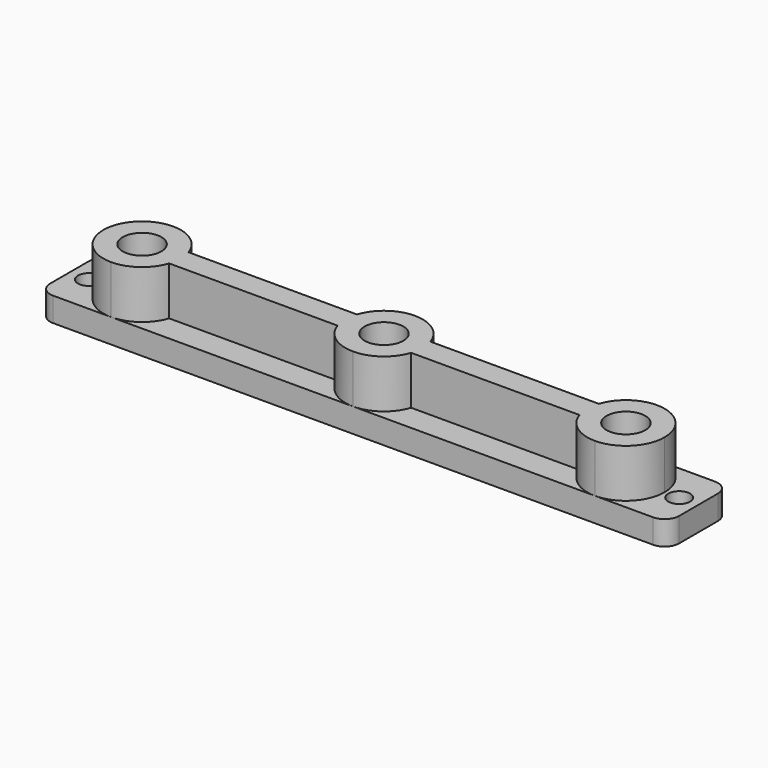
from build123d import *

# Parameters (mm, degrees)
F0_R     = 2.25
F1_DEPTH = 5
F0_R_2   = 4
F2_DEPTH = 15


with BuildPart() as f1:
    # F0 (on Top) → F1 (new body)
    with BuildSketch(Plane.XY):
        with BuildLine():
            Line((20.711328, -2.5), (-14.089988, -2.5))
            ThreePointArc((-14.089988, -2.5), (-16.998914, -6.480741), (-21.68933, -8))
            Line((-21.68933, -8), (28.31067, -8))
            ThreePointArc((28.31067, -8), (23.620255, -6.480741), (20.711328, -2.5))
        make_face()
        with BuildLine():
            ThreePointArc((-21.68933, 8), (-16.998914, 6.480741), (-14.089988, 2.5))
            Line((-14.089988, 2.5), (20.711328, 2.5))
            ThreePointArc((20.711328, 2.5), (23.620255, 6.480741), (28.31067, 8))
            Line((28.31067, 8), (-21.68933, 8))
        make_face()
        with BuildLine():
            ThreePointArc((-21.68933, -8), (-29.68933, 0), (-21.68933, 8))
            Line((-21.68933, 8), (-33.68933, 8))
            ThreePointArc((-33.68933, 8), (-35.81065, 7.12132), (-36.68933, 5))
            Line((-36.68933, 5), (-36.68933, -5))
            ThreePointArc((-36.68933, -5), (-35.81065, -7.12132), (-33.68933, -8))
            Line((-33.68933, -8), (-21.68933, -8))
        make_face()
        with Locations((-32.68933, 0)):
            Circle(F0_R, mode=Mode.SUBTRACT)
        with BuildLine():
            Line((90.31067, 8), (78.31067, 8))
            ThreePointArc((78.31067, 8), (83.967525, 5.656854), (86.31067, 0))
            ThreePointArc((86.31067, 0), (83.967525, -5.656854), (78.31067, -8))
            Line((78.31067, -8), (90.31067, -8))
            ThreePointArc((90.31067, -8), (92.431991, -7.12132), (93.31067, -5))
            Line((93.31067, -5), (93.31067, 5))
            ThreePointArc((93.31067, 5), (92.431991, 7.12132), (90.31067, 8))
        make_face()
        with Locations((89.31067, 0)):
            Circle(F0_R, mode=Mode.SUBTRACT)
        with BuildLine():
            Line((78.31067, 8), (28.31067, 8))
            ThreePointArc((28.31067, 8), (33.001086, 6.480741), (35.910012, 2.5))
            Line((35.910012, 2.5), (70.711328, 2.5))
            ThreePointArc((70.711328, 2.5), (73.620255, 6.480741), (78.31067, 8))
        make_face()
        with BuildLine():
            ThreePointArc((35.910012, -2.5), (33.001086, -6.480741), (28.31067, -8))
            Line((28.31067, -8), (78.31067, -8))
            ThreePointArc((78.31067, -8), (73.620255, -6.480741), (70.711328, -2.5))
            Line((70.711328, -2.5), (35.910012, -2.5))
        make_face()
    extrude(amount=F1_DEPTH)

    # F0 (on Top) → F2 (join)
    with BuildSketch(Plane.XY):
        with BuildLine():
            ThreePointArc((-14.089988, -2.5), (-13.790129, -1.265951), (-13.68933, 0))
            ThreePointArc((-13.68933, 0), (-13.790129, 1.265951), (-14.089988, 2.5))
            ThreePointArc((-14.089988, 2.5), (-16.998914, 6.480741), (-21.68933, 8))
            ThreePointArc((-21.68933, 8), (-29.68933, 0), (-21.68933, -8))
            ThreePointArc((-21.68933, -8), (-16.998914, -6.480741), (-14.089988, -2.5))
        make_face()
        with Locations((-21.68933, 0)):
            Circle(F0_R_2, mode=Mode.SUBTRACT)
        with BuildLine():
            ThreePointArc((86.31067, 0), (83.967525, 5.656854), (78.31067, 8))
            ThreePointArc((78.31067, 8), (73.620255, 6.480741), (70.711328, 2.5))
            ThreePointArc((70.711328, 2.5), (70.31067, 0), (70.711328, -2.5))
            ThreePointArc((70.711328, -2.5), (73.620255, -6.480741), (78.31067, -8))
            ThreePointArc((78.31067, -8), (83.967525, -5.656854), (86.31067, 0))
        make_face()
        with Locations((78.31067, 0)):
            Circle(F0_R_2, mode=Mode.SUBTRACT)
        with BuildLine():
            ThreePointArc((-14.089988, 2.5), (-13.790129, 1.265951), (-13.68933, 0))
            ThreePointArc((-13.68933, 0), (-13.790129, -1.265951), (-14.089988, -2.5))
            Line((-14.089988, -2.5), (20.711328, -2.5))
            ThreePointArc((20.711328, -2.5), (20.31067, 0), (20.711328, 2.5))
            Line((20.711328, 2.5), (-14.089988, 2.5))
        make_face()
        with BuildLine():
            Line((70.711328, 2.5), (35.910012, 2.5))
            ThreePointArc((35.910012, 2.5), (36.209871, 1.265951), (36.31067, 0))
            ThreePointArc((36.31067, 0), (36.209871, -1.265951), (35.910012, -2.5))
            Line((35.910012, -2.5), (70.711328, -2.5))
            ThreePointArc((70.711328, -2.5), (70.31067, 0), (70.711328, 2.5))
        make_face()
        with BuildLine():
            ThreePointArc((28.31067, 8), (23.620255, 6.480741), (20.711328, 2.5))
            ThreePointArc((20.711328, 2.5), (20.31067, 0), (20.711328, -2.5))
            ThreePointArc((20.711328, -2.5), (23.620255, -6.480741), (28.31067, -8))
            ThreePointArc((28.31067, -8), (33.001086, -6.480741), (35.910012, -2.5))
            ThreePointArc((35.910012, -2.5), (36.209871, -1.265951), (36.31067, 0))
            ThreePointArc((36.31067, 0), (36.209871, 1.265951), (35.910012, 2.5))
            ThreePointArc((35.910012, 2.5), (33.001086, 6.480741), (28.31067, 8))
        make_face()
        with Locations((28.31067, 0)):
            Circle(F0_R_2, mode=Mode.SUBTRACT)
    extrude(amount=F2_DEPTH)


solid = f1.part
